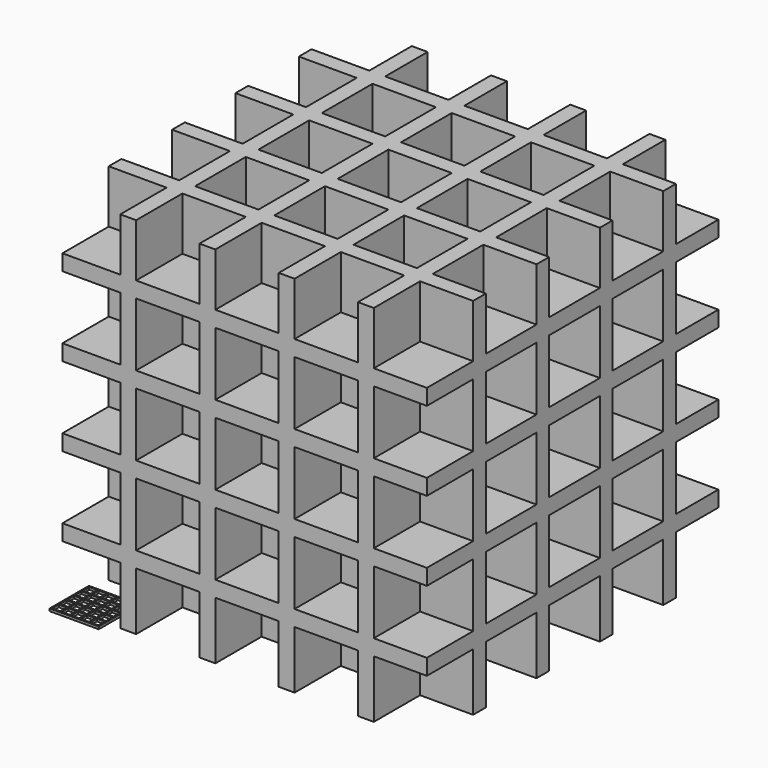
from build123d import *

# Parameters (mm, degrees)
BOX_W            = 10
BOX_H            = 10
BOX_DEPTH        = 10
ARRAY_X_COUNT    = 5
ARRAY_X_PITCH    = 12
ARRAY_Y_COUNT    = 5
ARRAY_Y_PITCH    = 12
BOX001_W         = 62
BOX001_H         = 62
BOX001_DEPTH     = 3
BOX002_W         = 80
BOX002_H         = 80
BOX002_DEPTH     = 80
ARRAY001_X_COUNT = 5
ARRAY001_X_PITCH = 100
ARRAY001_Y_COUNT = 5
ARRAY001_Y_PITCH = 100
ARRAY001_Z_COUNT = 5
ARRAY001_Z_PITCH = 100
BOX003_W         = 460
BOX003_H         = 460
BOX003_DEPTH     = 460


with BuildPart() as array:
    # Box → Box (new body)
    with BuildSketch(Plane.XY):
        with Locations((5, 5)):
            Rectangle(BOX_W, BOX_H)
    extrude(amount=BOX_DEPTH)

    # Array X: Array ×5


with BuildPart() as array_1:
    add(array.part)
    with Locations(*[(i * ARRAY_X_PITCH, 0, 0) for i in range(1, ARRAY_X_COUNT)]):
        add(array.part)

    # Array Y: Array ×5


with BuildPart() as array_2:
    add(array_1.part)
    with Locations(*[(0, i * ARRAY_Y_PITCH, 0) for i in range(1, ARRAY_Y_COUNT)]):
        add(array_1.part)


with BuildPart() as cut:
    # Box001 → Box001 (new body)
    with BuildSketch(Plane(origin=(-2, -2, 3), x_dir=(1, 0, 0), z_dir=(0, 0, 1))):
        with Locations((31, 31)):
            Rectangle(BOX001_W, BOX001_H)
    extrude(amount=BOX001_DEPTH)

    # Cut: cut Array
    add(array_2.part, mode=Mode.SUBTRACT)


with BuildPart() as array001:
    # Box002 → Box002 (new body)
    with BuildSketch(Plane.XY):
        with Locations((40, 40)):
            Rectangle(BOX002_W, BOX002_H)
    extrude(amount=BOX002_DEPTH)

    # Array001 X: Array001 ×5


with BuildPart() as array001_1:
    add(array001.part)
    with Locations(*[(i * ARRAY001_X_PITCH, 0, 0) for i in range(1, ARRAY001_X_COUNT)]):
        add(array001.part)

    # Array001 Y: Array001 ×5


with BuildPart() as array001_2:
    add(array001_1.part)
    with Locations(*[(0, i * ARRAY001_Y_PITCH, 0) for i in range(1, ARRAY001_Y_COUNT)]):
        add(array001_1.part)

    # Array001 Z: Array001 ×5


with BuildPart() as array001_3:
    add(array001_2.part)
    with Locations(*[(0, 0, i * ARRAY001_Z_PITCH) for i in range(1, ARRAY001_Z_COUNT)]):
        add(array001_2.part)


with BuildPart() as cut001:
    # Box003 → Box003 (new body)
    with BuildSketch(Plane(origin=(7, 7, 7), x_dir=(1, 0, 0), z_dir=(0, 0, 1))):
        with Locations((230, 230)):
            Rectangle(BOX003_W, BOX003_H)
    extrude(amount=BOX003_DEPTH)

    # Cut001: cut Array001
    add(array001_3.part, mode=Mode.SUBTRACT)


solid = Compound([cut.part, cut001.part])
